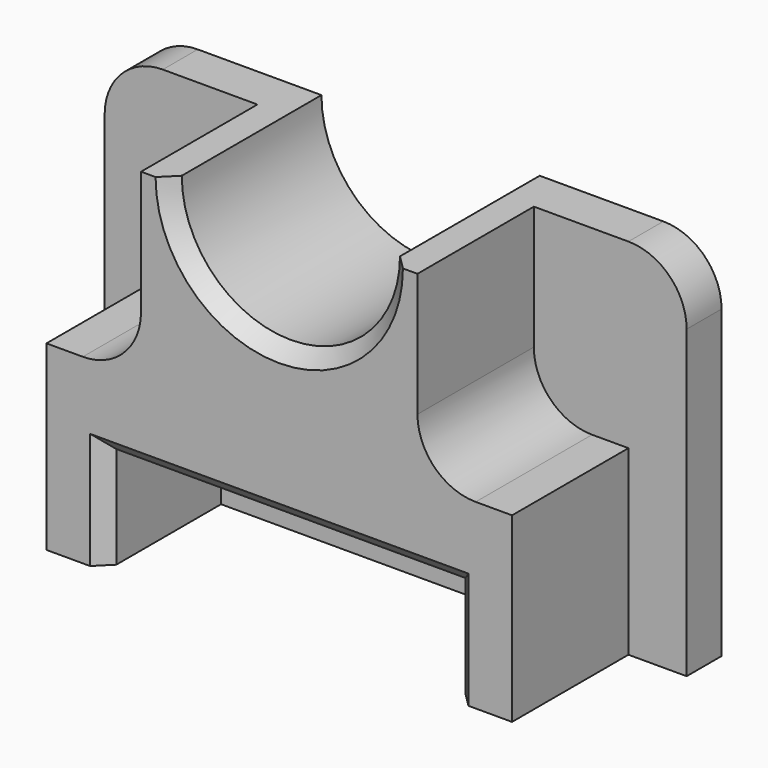
from build123d import *

# Parameters (mm, degrees)
F1_DEPTH = 3.81
F3_DEPTH = 12.7
F4_SIZE  = 1.27


with BuildPart() as f1:
    # F0 (on Front) → F1 (new body)
    with BuildSketch(Plane.XZ):
        with BuildLine():
            ThreePointArc((25.4, 10.795), (23.912102, 14.387102), (20.32, 15.875))
            Line((20.32, 15.875), (9.525, 15.875))
            ThreePointArc((9.525, 15.875), (0, 6.35), (-9.525, 15.875))
            Line((-9.525, 15.875), (-20.32, 15.875))
            ThreePointArc((-20.32, 15.875), (-23.912102, 14.387102), (-25.4, 10.795))
            Line((-25.4, 10.795), (-25.4, -15.875))
            Line((-25.4, -15.875), (25.4, -15.875))
            Line((25.4, -15.875), (25.4, 10.795))
        make_face()
    extrude(amount=F1_DEPTH)

    # F2 (on face) → F3 (join)
    with BuildSketch(Plane.XZ.offset(3.81)):
        with BuildLine():
            ThreePointArc((9.525, 15.875), (0, 6.35), (-9.525, 15.875))
            Line((-9.525, 15.875), (-12.065, 15.875))
            Line((-12.065, 15.875), (-12.065, 5.08))
            ThreePointArc((-12.065, 5.08), (-13.552898, 1.487898), (-17.145, 0))
            Line((-17.145, 0), (-20.32, 0))
            Line((-20.32, 0), (-20.32, -15.875))
            Line((-20.32, -15.875), (-15.24, -15.875))
            Line((-15.24, -15.875), (-15.24, -6.985))
            Line((-15.24, -6.985), (0, -6.985))
            Line((0, -6.985), (15.24, -6.985))
            Line((15.24, -6.985), (15.24, -15.875))
            Line((15.24, -15.875), (20.32, -15.875))
            Line((20.32, -15.875), (20.32, 0))
            Line((20.32, 0), (17.145, 0))
            ThreePointArc((17.145, 0), (13.552898, 1.487898), (12.065, 5.08))
            Line((12.065, 5.08), (12.065, 15.875))
            Line((12.065, 15.875), (9.525, 15.875))
        make_face()
    extrude(amount=F3_DEPTH)

    # F4
    f4_edges = [f1.edges().sort_by_distance(p)[0] for p in [
        (0, -16.51, 6.35),
        (-15.24, -16.51, -11.43),
        (0, -16.51, -6.985),
        (15.24, -16.51, -11.43),
    ]]
    chamfer(f4_edges, length=F4_SIZE)


solid = f1.part
